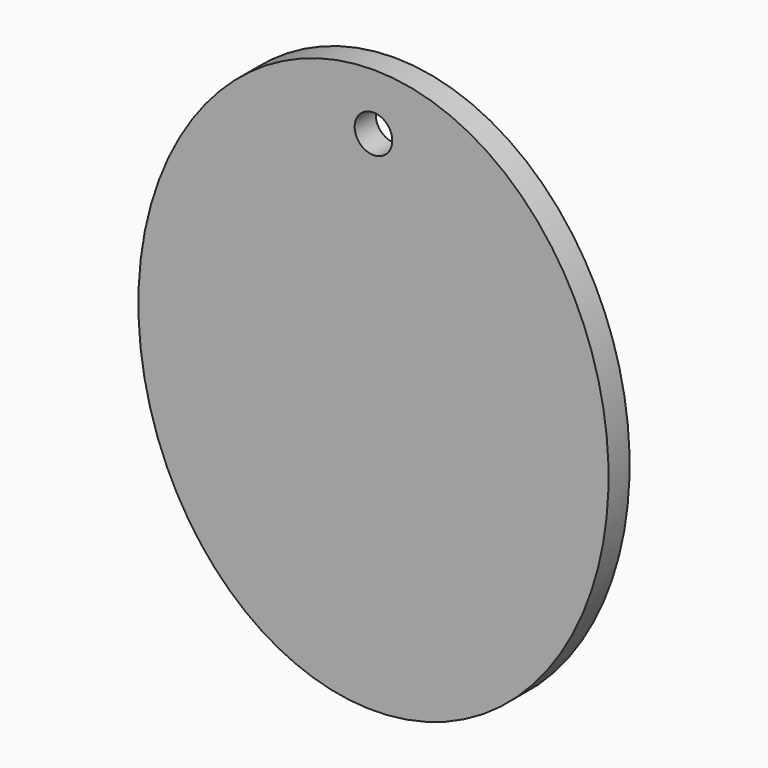
from build123d import *

# Parameters (mm, degrees)
F0_R     = 1.27
F1_DEPTH = 1.778


with BuildPart() as f1:
    # F0 (on Front) → F1 (new body)
    with BuildSketch(Plane.XZ):
        with BuildLine():
            add(Edge.make_bspline(
                [(0, 19.05), (-27.496307, 19.05), (-13.748153, -9.525), (0, -38.1), (13.748153, -9.525), (27.496307, 19.05), (0, 19.05)],
                knots=[0, 0, 0, 2.094395, 2.094395, 4.18879, 4.18879, 6.283185, 6.283185, 6.283185], degree=2, weights=[1, 0.5, 1, 0.5, 1, 0.5, 1]))
        make_face()
        with Locations((0, 15.24)):
            Circle(F0_R, mode=Mode.SUBTRACT)
    extrude(amount=F1_DEPTH)


solid = f1.part
